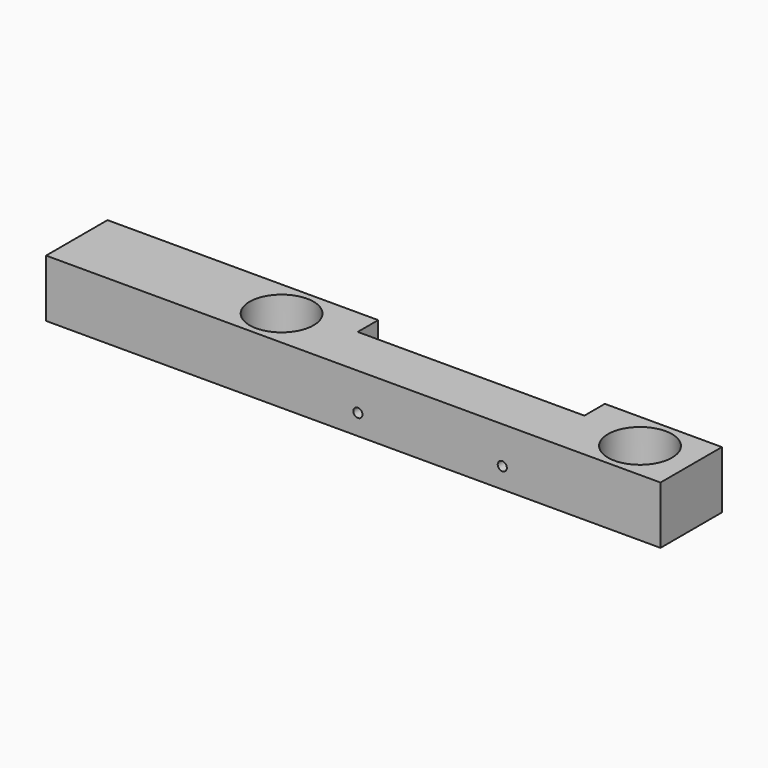
from build123d import *

# Parameters (mm, degrees)
F0_R     = 7.9375
F1_DEPTH = 14.2748
F2_R     = 1.1303
F3_DEPTH = 12.701


with BuildPart() as f1:
    # F0 (on Top) → F1 (new body)
    with BuildSketch(Plane.XY):
        Polygon((57.15, -9.525), (57.15, 9.525), (28.109774, 9.525), (28.109774, 3.175), (-28.109774, 3.175), (-28.109774, 9.525), (-95.25, 9.525), (-95.25, -9.525), align=None)
        with Locations((-44.45, 0)):
            Circle(F0_R, mode=Mode.SUBTRACT)
        with Locations((44.45, 0)):
            Circle(F0_R, mode=Mode.SUBTRACT)
    extrude(amount=F1_DEPTH)

    # F2 (on face) → F3 (cut, through all)
    with BuildSketch(Plane(origin=(0, 3.175, 0), x_dir=(-1, 0, 0), z_dir=(0, 1, 0))):
        with Locations((-17.907, 5.08)):
            Circle(F2_R)
        with Locations((17.907, 5.08)):
            Circle(F2_R)
    extrude(amount=-F3_DEPTH, mode=Mode.SUBTRACT)


solid = f1.part
